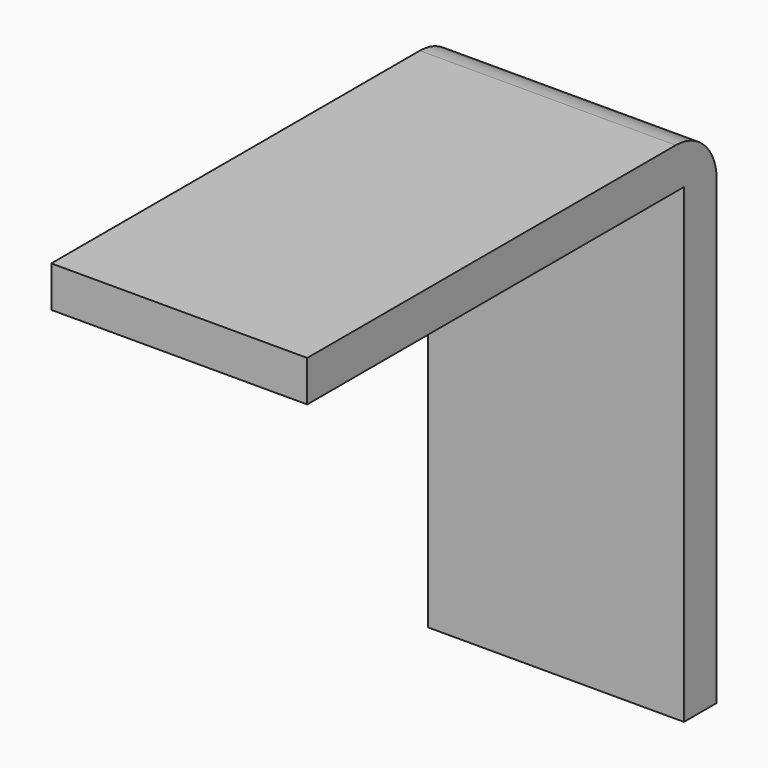
from build123d import *

# Parameters (mm, degrees)
F0_W     = 46
F0_H     = 4
F0_W_2   = 4
F0_H_2   = 46
F1_DEPTH = 25
F2_R     = 5


with BuildPart() as f1:
    # F0 (on Right) → F1 (new body)
    with BuildSketch(Plane.YZ):
        with Locations((-23.833319, -2)):
            Rectangle(F0_W, F0_H)
        with Locations((1.166681, -2)):
            Rectangle(F0_W_2, F0_H)
        with Locations((1.166681, -27)):
            Rectangle(F0_W_2, F0_H_2)
    extrude(amount=F1_DEPTH)

    # F2
    f2_edges = [f1.edges().sort_by_distance(p)[0] for p in [
        (12.5, 3.166681, 0),
    ]]
    fillet(f2_edges, radius=F2_R)


solid = f1.part
